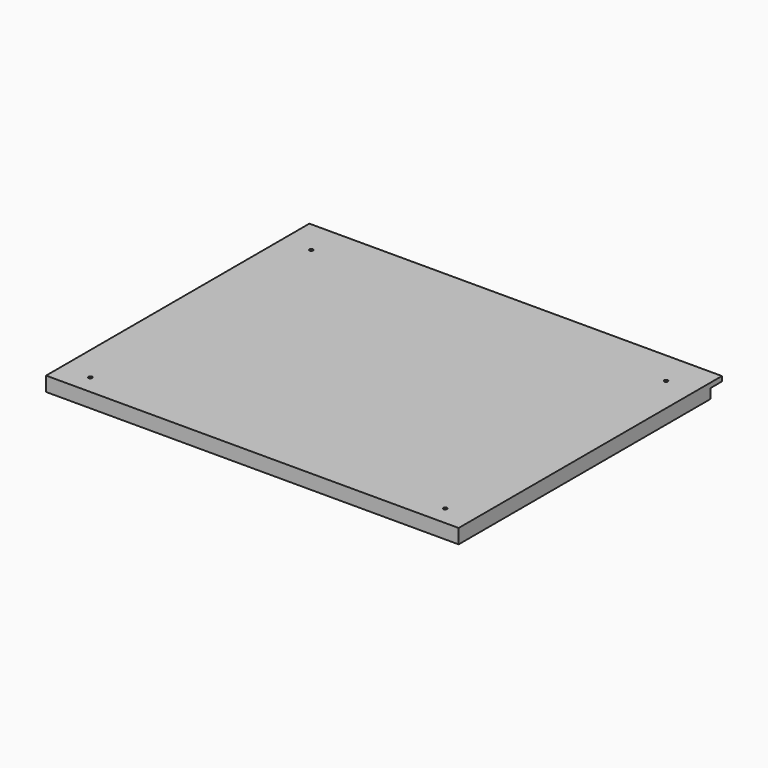
from build123d import *

# Parameters (mm, degrees)
SKETCH051_W             = 514
SKETCH051_H             = 410
PAD019_DEPTH            = 18
SKETCH052_W             = 514
SKETCH052_H             = 18
POCKET032_DEPTH         = 12
SKETCH053_R             = 2.25
POCKET033_DEPTH         = 18
BODY018_PLACEMENT_ANGLE = 180


with BuildPart() as part:
    # Sketch051 → Pad019 (new body)
    with BuildSketch(Plane.XY):
        with Locations((0, 205)):
            Rectangle(SKETCH051_W, SKETCH051_H)
    extrude(amount=PAD019_DEPTH)

    # Sketch052 (on Face6 of Pad019) → Pocket032 (cut)
    with BuildSketch(Plane.XY.offset(18)):
        with Locations((0, 401)):
            Rectangle(SKETCH052_W, SKETCH052_H)
    extrude(amount=-POCKET032_DEPTH, mode=Mode.SUBTRACT)

    # Sketch053 (on Face7 of Pocket032) → Pocket033 (cut)
    with BuildSketch(Plane.XY.offset(18)):
        with Locations((-221, 24)):
            Circle(SKETCH053_R)
        with Locations((-221, 368)):
            Circle(SKETCH053_R)
    pocket033 = extrude(amount=-POCKET033_DEPTH, mode=Mode.SUBTRACT)

    # Mirrored012: Pocket033 across Sketch053 V_Axis
    add(pocket033.mirror(Plane(origin=(0, 0, 18), x_dir=(0, 0, 1), z_dir=(1, 0, 0))), mode=Mode.SUBTRACT)


with BuildPart() as part_1:
    # Body018 placement: moved
    add(part.part.moved(Location((0, 0, 530))).rotate(Axis((0, 0, 530), (0, 1, 0)), BODY018_PLACEMENT_ANGLE))


solid = part_1.part
